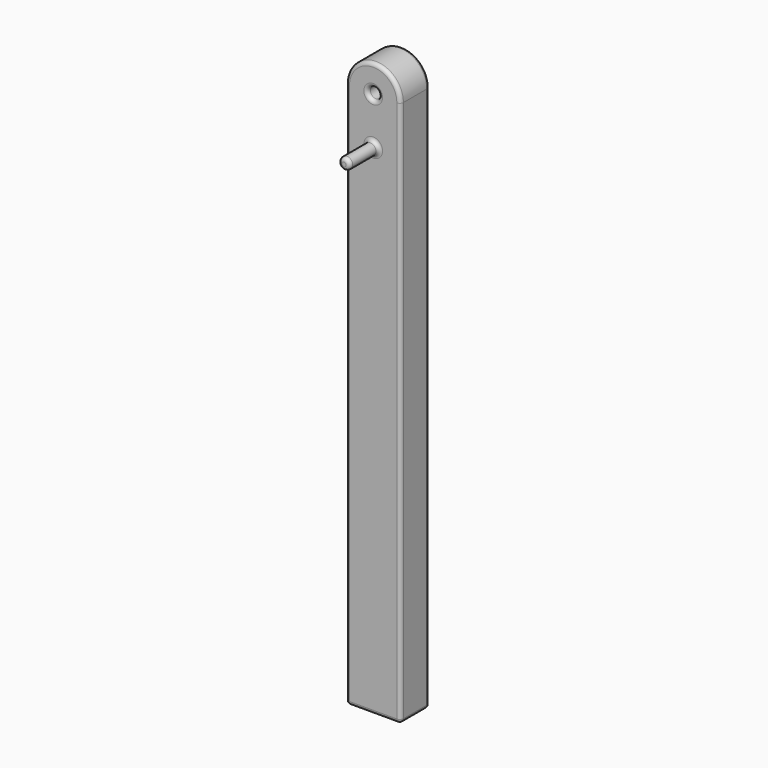
from build123d import *

# Parameters (mm, degrees)
F0_R     = 3.96875
F1_DEPTH = 50.8
F2_DEPTH = 25.4
F3_R     = 2.54


with BuildPart() as f1:
    # F0 (on Front) → F1 (new body)
    with BuildSketch(Plane.XZ):
        with Locations((19.05, 348.1435775757)):
            Circle(F0_R)
    extrude(amount=F1_DEPTH)

    # F0 (on Front) → F2 (join)
    with BuildSketch(Plane.XZ):
        with BuildLine():
            Line((0, 381), (0, 0))
            Line((0, 0), (38.1, 0))
            Line((38.1, 0), (38.1, 381))
            ThreePointArc((38.1, 381), (19.05, 400.05), (0, 381))
        make_face()
        with Locations((19.05, 348.1435775757)):
            Circle(F0_R, mode=Mode.SUBTRACT)
        with Locations((19.05, 381)):
            Circle(F0_R, mode=Mode.SUBTRACT)
    extrude(amount=F2_DEPTH)

    # F3
    f3_edges = [f1.edges().sort_by_distance(p)[0] for p in [
        (15.08125, -25.4, 348.143578),
        (23.01875, -38.1, 348.143578),
        (15.08125, -50.8, 348.143578),
        (19.05, -25.4, 400.05),
        (0, -25.4, 190.5),
        (19.05, -25.4, 0),
        (38.1, -25.4, 190.5),
        (15.08125, -25.4, 381),
        (38.1, -12.7, 381),
        (0, -12.7, 381),
        (19.05, 0, 400.05),
        (0, -12.7, 0),
        (0, 0, 190.5),
        (23.01875, -12.7, 381),
        (15.08125, 0, 381),
        (38.1, -12.7, 0),
        (38.1, 0, 190.5),
        (19.05, 0, 0),
    ]]
    fillet(f3_edges, radius=F3_R)


solid = f1.part
